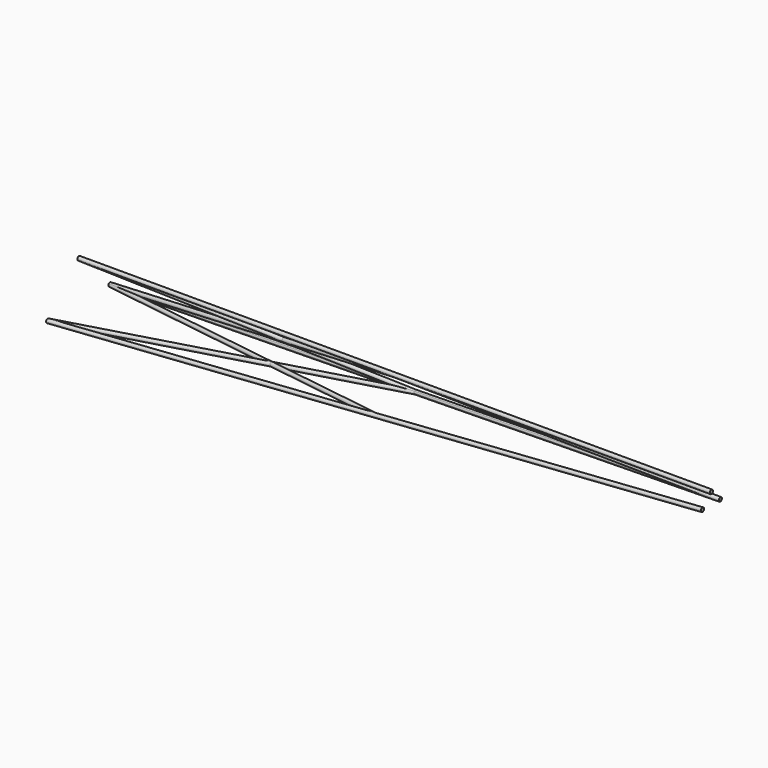
from build123d import *

# Parameters (mm, degrees)
F1_DEPTH = 8000
F37_R    = 25
F40_R    = 25
F43_R    = 25
F46_R    = 25
F49_R    = 25


with BuildPart() as f1:
    # F0 (on Right) → F1 (new body)
    with BuildSketch(Plane.YZ):
        with BuildLine():
            ThreePointArc((17.6776695297, -17.6776695297), (23.0969883128, -9.5670858091), (25, 0))
            ThreePointArc((25, 0), (-9.5670858091, 23.0969883128), (-17.6776695297, -17.6776695297))
            Line((-17.6776695297, -17.6776695297), (0, 0))
            Line((0, 0), (17.6776695297, -17.6776695297))
        make_face()
        with BuildLine():
            Line((0, 0), (-17.6776695297, -17.6776695297))
            ThreePointArc((-17.6776695297, -17.6776695297), (0, -25), (17.6776695297, -17.6776695297))
            Line((17.6776695297, -17.6776695297), (0, 0))
        make_face()
    extrude(amount=F1_DEPTH)


with BuildPart() as f6:
    # F6: sweep along a path in F5
    with BuildLine(Plane(origin=(21.8323586745, 0, -494.0098837763), x_dir=(0.9990248657, 0, 0.0441510786), z_dir=(0.0441510786, 0, -0.9990248657))) as f6_path:
        Line((-21.8536689369, -494.9747468306), (7985.9550200866, -141.4213562373))
    # F0 (on Right) → F6 (sweep)
    with BuildSketch(Plane.YZ):
        with BuildLine():
            ThreePointArc((519.9747468306, -494.9747468306), (504.5418326397, -471.8777585178), (477.2970773009, -477.2970773009))
            Line((477.2970773009, -477.2970773009), (494.9747468306, -494.9747468306))
            Line((494.9747468306, -494.9747468306), (469.9747468306, -494.9747468306))
            ThreePointArc((469.9747468306, -494.9747468306), (494.9747468306, -519.9747468306), (519.9747468306, -494.9747468306))
        make_face()
        with BuildLine():
            Line((494.9747468306, -494.9747468306), (477.2970773009, -477.2970773009))
            ThreePointArc((477.2970773009, -477.2970773009), (471.8777585178, -485.4076610215), (469.9747468306, -494.9747468306))
            Line((469.9747468306, -494.9747468306), (494.9747468306, -494.9747468306))
        make_face()
    sweep(path=f6_path.line)


with BuildPart() as f7:
    # F7: sweep along a path in F5
    with BuildLine(Plane(origin=(21.8323586745, 0, -494.0098837763), x_dir=(0.9990248657, 0, 0.0441510786), z_dir=(0.0441510786, 0, -0.9990248657))) as f7_path:
        Line((7985.9550200866, 141.4213562373), (-21.8536689369, 494.9747468306))
    # F0 (on Right) → F7 (sweep)
    with BuildSketch(Plane.YZ):
        with BuildLine():
            Line((-494.9747468306, -494.9747468306), (-477.2970773009, -477.2970773009))
            ThreePointArc((-477.2970773009, -477.2970773009), (-518.0717351434, -504.5418326397), (-469.9747468306, -494.9747468306))
            Line((-469.9747468306, -494.9747468306), (-494.9747468306, -494.9747468306))
        make_face()
        with BuildLine():
            ThreePointArc((-469.9747468306, -494.9747468306), (-471.8777585178, -485.4076610215), (-477.2970773009, -477.2970773009))
            Line((-477.2970773009, -477.2970773009), (-494.9747468306, -494.9747468306))
            Line((-494.9747468306, -494.9747468306), (-469.9747468306, -494.9747468306))
        make_face()
    sweep(path=f7_path.line)


with BuildPart() as f38:
    # F38: sweep along a path in F35
    with BuildLine(Plane(origin=(21.8323586745, 0, -494.0098837763), x_dir=(0.9990248657, 0, 0.0441510786), z_dir=(0.0441510786, 0, -0.9990248657))) as f38_path:
        Line((3982.0506755748, 318.1980515339), (-21.8536689369, -494.9747468306))
    # F37 (on line) → F38 (sweep)
    with BuildSketch(Plane(origin=(-117.4180020968, 23.8702813358, -5.1891915947), x_dir=(-0.1988375705, -0.9799930618, -0.0087874622), z_dir=(-0.9790374369, 0.1990316531, -0.0432677507))):
        with Locations((-480.7222457814, -494.4920799709)):
            Circle(F37_R)
    sweep(path=f38_path.line)


with BuildPart() as f41:
    # F41: sweep along a path in F34
    with BuildLine(Plane(origin=(0, 0, 0), x_dir=(1, 0, 0), z_dir=(0, -0.7071067812, -0.7071067812))) as f41_path:
        Line((0, 0), (4000, -450))
    # F40 (on line) → F41 (sweep)
    with BuildSketch(Plane(origin=(0, 0, 0), x_dir=(-0.0788019012, 0.9968705856, 0.0062686529), z_dir=(0.9937313162, 0.0790508421, -0.0790508421))):
        Circle(F40_R)
    sweep(path=f41_path.line)


with BuildPart() as f44:
    # F44: sweep along a path in F35
    with BuildLine(Plane(origin=(21.8323586745, 0, -494.0098837763), x_dir=(0.9990248657, 0, 0.0441510786), z_dir=(0.0441510786, 0, -0.9990248657))) as f44_path:
        Line((-21.8536689369, 494.9747468306), (3982.0506755748, -318.1980515339))
    # F43 (on line) → F44 (sweep)
    with BuildSketch(Plane(origin=(-117.4180020968, -23.8702813358, -5.1891915947), x_dir=(-0.1988375705, 0.9799930618, -0.0087874622), z_dir=(0.9790374369, 0.1990316531, 0.0432677507))):
        with Locations((-480.7222457814, -494.492079971)):
            Circle(F43_R)
    sweep(path=f44_path.line)


with BuildPart() as f47:
    # F47: sweep along a path in F34
    with BuildLine(Plane(origin=(0, 0, 0), x_dir=(1, 0, 0), z_dir=(0, -0.7071067812, -0.7071067812))) as f47_path:
        Line((4000, 0), (0, -700))
    # F46 (on line) → F47 (sweep)
    with BuildSketch(Plane(origin=(-118.8599151001, 14.7081640962, -14.7081640962), x_dir=(-0.1209686539, -0.9925434553, -0.0149691072), z_dir=(-0.9850304672, 0.1218913015, -0.1218913015))):
        with Locations((-483.8746154449, -491.2280701754)):
            Circle(F46_R)
    sweep(path=f47_path.line)


with BuildPart() as f50:
    # F50: sweep along a path in F34
    with BuildLine(Plane(origin=(0, 0, 0), x_dir=(1, 0, 0), z_dir=(0, -0.7071067812, -0.7071067812))) as f50_path:
        Line((4000, 0), (8000, -200))
    # F49 (on line) → F50 (sweep)
    with BuildSketch(Plane(origin=(3990.0249376559, 141.068684526, -141.068684526), x_dir=(-0.0352891787, 0.9993763641, 0.0012476609), z_dir=(0.9987523389, 0.0353112276, -0.0353112276))):
        with Locations((-141.1567149149, 141.3330506675)):
            Circle(F49_R)
    sweep(path=f50_path.line)


solid = Compound([f1.part, f6.part, f7.part, f38.part, f41.part, f44.part, f47.part, f50.part])
